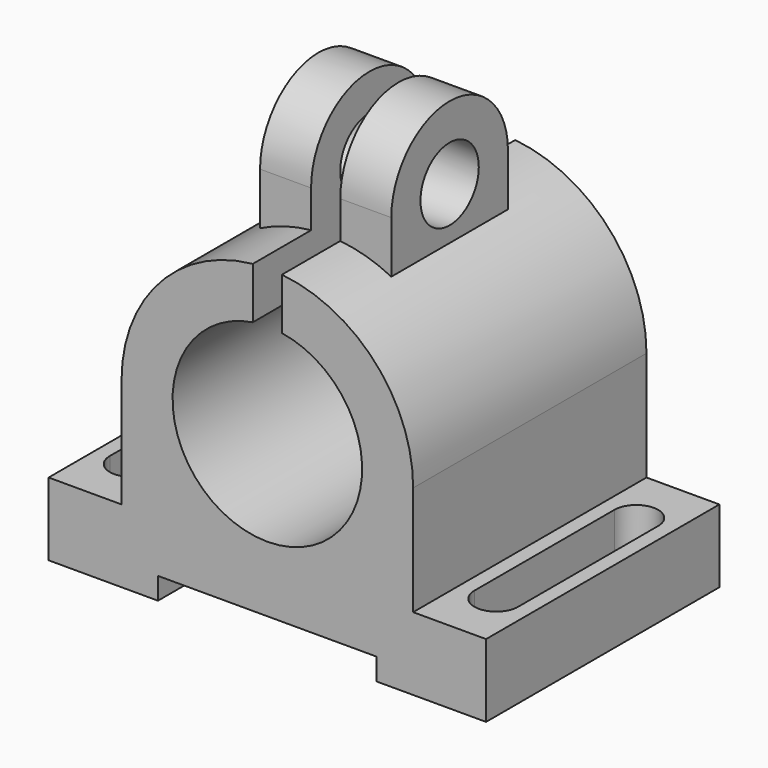
from build123d import *

# Parameters (mm, degrees)
SKETCH_W             = 60
SKETCH_H             = 40
PAD_DEPTH            = 10
PAD001_DEPTH         = 40
PAD002_DEPTH         = 9
PAD002_DEPTH_BACK    = 9
SKETCH003_R          = 5
POCKET_DEPTH         = 10
POCKET_DEPTH_BACK    = -10
SKETCH004_R          = 13
POCKET001_DEPTH      = 20
POCKET001_DEPTH_BACK = -20
SKETCH005_W          = 4
SKETCH005_H          = 29.604214
POCKET002_DEPTH      = 20
POCKET002_DEPTH_BACK = -20
SKETCH006_W          = 30
SKETCH006_H          = 3
POCKET003_DEPTH      = 55
POCKET003_DEPTH_BACK = -150
POCKET004_DEPTH      = 5
POCKET004_DEPTH_BACK = -100
POCKET005_DEPTH      = 5
POCKET005_DEPTH_BACK = -100


with BuildPart() as part:
    # Sketch → Pad (new body)
    with BuildSketch(Plane.XY):
        Rectangle(SKETCH_W, SKETCH_H)
    extrude(amount=PAD_DEPTH)

    # Sketch001 (on Face3 of Pad) → Pad001 (join)
    with BuildSketch(Plane.XZ.offset(20)):
        with BuildLine():
            Line((-20, 10), (-20, 25))
            ThreePointArc((20, 25), (0, 45), (-20, 25))
            Line((20, 25), (20, 10))
            Line((20, 10), (-20, 10))
        make_face()
    extrude(amount=-PAD001_DEPTH)

    # Sketch002 → Pad002 (join, two sides)
    with BuildSketch(Plane.YZ) as pad002_sk:
        with BuildLine():
            Line((10, 42.768332), (10, 50))
            ThreePointArc((10, 50), (0, 60), (-10, 50))
            Line((-10, 50), (-10, 42.768332))
            Line((10, 42.768332), (-10, 42.768332))
        make_face()
    extrude(amount=PAD002_DEPTH)
    extrude(pad002_sk.sketch, amount=-PAD002_DEPTH_BACK)

    # Sketch003 → Pocket (cut, two sides)
    with BuildSketch(Plane.YZ) as pocket_sk:
        with Locations((0, 50)):
            Circle(SKETCH003_R)
    extrude(amount=-POCKET_DEPTH, mode=Mode.SUBTRACT)
    extrude(pocket_sk.sketch, amount=-POCKET_DEPTH_BACK, mode=Mode.SUBTRACT)

    # Sketch004 → Pocket001 (cut, two sides)
    with BuildSketch(Plane.XZ) as pocket001_sk:
        with Locations((0, 25)):
            Circle(SKETCH004_R)
    extrude(amount=-POCKET001_DEPTH, mode=Mode.SUBTRACT)
    extrude(pocket001_sk.sketch, amount=-POCKET001_DEPTH_BACK, mode=Mode.SUBTRACT)

    # Sketch005 → Pocket002 (cut, two sides)
    with BuildSketch(Plane.XZ) as pocket002_sk:
        with Locations((0, 49.345087)):
            Rectangle(SKETCH005_W, SKETCH005_H)
    extrude(amount=-POCKET002_DEPTH, mode=Mode.SUBTRACT)
    extrude(pocket002_sk.sketch, amount=-POCKET002_DEPTH_BACK, mode=Mode.SUBTRACT)

    # Sketch006 → Pocket003 (cut, two sides)
    with BuildSketch(Plane.XZ) as pocket003_sk:
        with Locations((0, 1.5)):
            Rectangle(SKETCH006_W, SKETCH006_H)
    extrude(amount=-POCKET003_DEPTH, mode=Mode.SUBTRACT)
    extrude(pocket003_sk.sketch, amount=-POCKET003_DEPTH_BACK, mode=Mode.SUBTRACT)

    # Sketch007 → Pocket004 (cut, two sides)
    with BuildSketch(Plane.XY) as pocket004_sk:
        with BuildLine():
            ThreePointArc((-22, 12), (-25, 15), (-28, 12))
            Line((-28, 12), (-28, -12))
            ThreePointArc((-28, -12), (-25, -15), (-22, -12))
            Line((-22, 12), (-22, -12))
        make_face()
    extrude(amount=-POCKET004_DEPTH, mode=Mode.SUBTRACT)
    extrude(pocket004_sk.sketch, amount=-POCKET004_DEPTH_BACK, mode=Mode.SUBTRACT)

    # Sketch008 → Pocket005 (cut, two sides)
    with BuildSketch(Plane.XY) as pocket005_sk:
        with BuildLine():
            ThreePointArc((28, 12), (25, 15), (22, 12))
            Line((22, 12), (22, -12))
            ThreePointArc((22, -12), (25, -15), (28, -12))
            Line((28, 12), (28, -12))
        make_face()
    extrude(amount=-POCKET005_DEPTH, mode=Mode.SUBTRACT)
    extrude(pocket005_sk.sketch, amount=-POCKET005_DEPTH_BACK, mode=Mode.SUBTRACT)


solid = part.part
